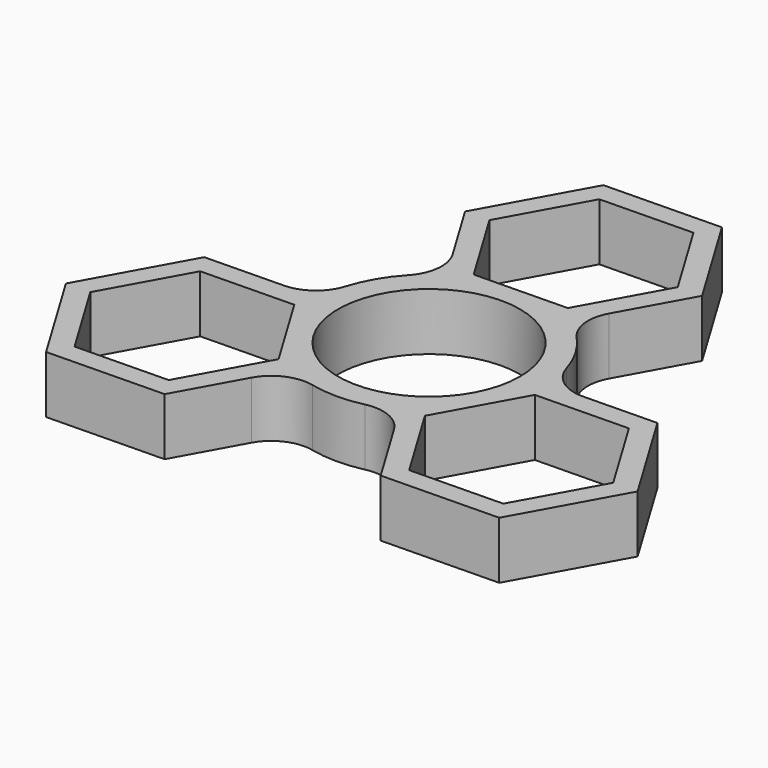
from build123d import *

# Parameters (mm, degrees)
F0_R     = 11.125
F1_DEPTH = 7


with BuildPart() as f1:
    # F0 (on Top) → F1 (new body)
    with BuildSketch(Plane.XY):
        with BuildLine():
            Line((-14.270237, 23.338111), (-9.655566, 15.673587))
            ThreePointArc((-9.655566, 15.673587), (-8.967214, 12.565001), (-10.294885, 9.671141))
            ThreePointArc((-10.294885, 9.671141), (-12.217419, 7.088744), (-13.505254, 4.138083))
            ThreePointArc((-13.505254, 4.138083), (-15.276242, 1.610135), (-18.19413, 0.603733))
            Line((-18.19413, 0.603733), (-27.80012, 0.427443))
            Line((-27.80012, 0.427443), (-34.708436, -12.061889))
            Line((-34.708436, -12.061889), (-27.346516, -24.289332))
            Line((-27.346516, -24.289332), (-13.076279, -24.027443))
            Line((-13.076279, -24.027443), (-8.745941, -16.198759))
            ThreePointArc((-8.745941, -16.198759), (-6.398003, -14.048335), (-3.228012, -13.751202))
            ThreePointArc((-3.228012, -13.751202), (-0.030322, -14.124967), (3.168942, -13.764935))
            ThreePointArc((3.168942, -13.764935), (6.243703, -14.034681), (8.574217, -16.058446))
            Line((8.574217, -16.058446), (13.529883, -24.289332))
            Line((13.529883, -24.289332), (27.80012, -24.027443))
            Line((27.80012, -24.027443), (34.708436, -11.538111))
            Line((34.708436, -11.538111), (27.346516, 0.689332))
            Line((27.346516, 0.689332), (18.401507, 0.525172))
            ThreePointArc((18.401507, 0.525172), (15.365217, 1.483334), (13.522896, 4.080061))
            ThreePointArc((13.522896, 4.080061), (12.247742, 7.036224), (10.336312, 9.626852))
            ThreePointArc((10.336312, 9.626852), (9.032538, 12.424546), (9.619913, 15.454712))
            Line((9.619913, 15.454712), (14.270237, 23.861889))
            Line((14.270237, 23.861889), (6.908316, 36.089332))
            Line((6.908316, 36.089332), (-7.361921, 35.827443))
            Line((-7.361921, 35.827443), (-14.270237, 23.338111))
        make_face()
        Polygon((-26.285783, -2.087725), (-14.950914, -1.879706), (-9.103331, -11.591982), (-14.590616, -21.512275), (-25.925485, -21.720294), (-31.773068, -12.008018), align=None, mode=Mode.SUBTRACT)
        Polygon((14.950914, -21.720294), (9.103331, -12.008018), (14.590616, -2.087725), (25.925485, -1.879706), (31.773068, -11.591982), (26.285783, -21.512275), align=None, mode=Mode.SUBTRACT)
        Circle(F0_R, mode=Mode.SUBTRACT)
        Polygon((-5.487285, 13.679706), (-11.334869, 23.391982), (-5.847584, 33.312275), (5.487285, 33.520294), (11.334869, 23.808018), (5.847584, 13.887725), align=None, mode=Mode.SUBTRACT)
    extrude(amount=F1_DEPTH)


solid = f1.part
